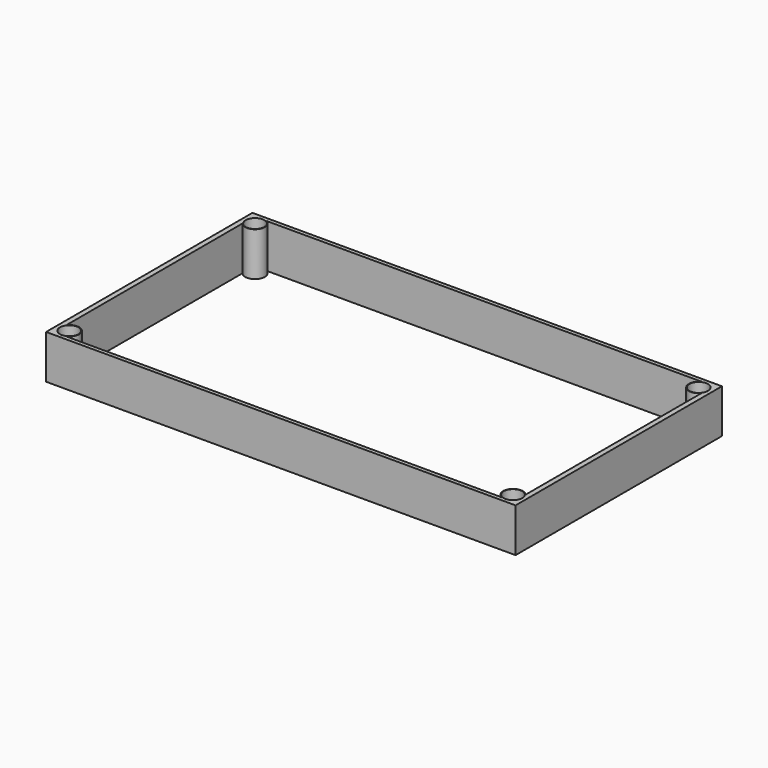
from build123d import *

# Parameters (mm, degrees)
CYLINDER003_R     = 3.6
CYLINDER003_DEPTH = 18
CYLINDER002_R     = 3.6
CYLINDER002_DEPTH = 18
CYLINDER001_R     = 3.6
CYLINDER001_DEPTH = 18
CYLINDER_R        = 3.6
CYLINDER_DEPTH    = 18
SKETCH_W          = 182
SKETCH_H          = 100
SKETCH_R          = 1.6
EXTRUDE001_DEPTH  = 17


with BuildPart() as zylinder003:
    # Cylinder003 → Cylinder003 (new body)
    with BuildSketch(Plane(origin=(86, -45, -14), x_dir=(1, 0, 0), z_dir=(0, 0, 1))):
        Circle(CYLINDER003_R)
    extrude(amount=CYLINDER003_DEPTH)


with BuildPart() as zylinder002:
    # Cylinder002 → Cylinder002 (new body)
    with BuildSketch(Plane(origin=(86, 45, -14), x_dir=(1, 0, 0), z_dir=(0, 0, 1))):
        Circle(CYLINDER002_R)
    extrude(amount=CYLINDER002_DEPTH)


with BuildPart() as zylinder001:
    # Cylinder001 → Cylinder001 (new body)
    with BuildSketch(Plane(origin=(-86, 45, -14), x_dir=(1, 0, 0), z_dir=(0, 0, 1))):
        Circle(CYLINDER001_R)
    extrude(amount=CYLINDER001_DEPTH)


with BuildPart() as fusion:
    # Cylinder → Cylinder (new body)
    with BuildSketch(Plane(origin=(-86, -45, -14), x_dir=(1, 0, 0), z_dir=(0, 0, 1))):
        Circle(CYLINDER_R)
    extrude(amount=CYLINDER_DEPTH)

    # Fusion: union Zylinder003, Zylinder002, Zylinder001
    add(zylinder003.part)
    add(zylinder002.part)
    add(zylinder001.part)


with BuildPart() as cut_aussen:
    # Sketch → Extrude001 (new body)
    with BuildSketch(Plane.XY):
        Rectangle(SKETCH_W, SKETCH_H)
        with Locations((-86, 45)):
            Circle(SKETCH_R, mode=Mode.SUBTRACT)
        with Locations((86, 45)):
            Circle(SKETCH_R, mode=Mode.SUBTRACT)
        with Locations((86, -45)):
            Circle(SKETCH_R, mode=Mode.SUBTRACT)
        with Locations((-86, -45)):
            Circle(SKETCH_R, mode=Mode.SUBTRACT)
        with BuildLine():
            Line((-84.520135, 48.5), (84.520135, 48.5))
            ThreePointArc((84.520135, 48.5), (82.986386, 42.685236), (89, 42.667619))
            Line((89, 42.667619), (89, -42.667619))
            ThreePointArc((89, -42.667619), (82.986386, -42.685236), (84.520135, -48.5))
            Line((84.520135, -48.5), (-84.520135, -48.5))
            ThreePointArc((-84.520135, -48.5), (-82.986386, -42.685236), (-89, -42.667619))
            Line((-89, -42.667619), (-89, 42.667619))
            ThreePointArc((-89, 42.667619), (-82.986386, 42.685236), (-84.520135, 48.5))
        make_face(mode=Mode.SUBTRACT)
    extrude(amount=-EXTRUDE001_DEPTH)

    # Cut006: cut Fusion
    add(fusion.part, mode=Mode.SUBTRACT)


solid = cut_aussen.part
